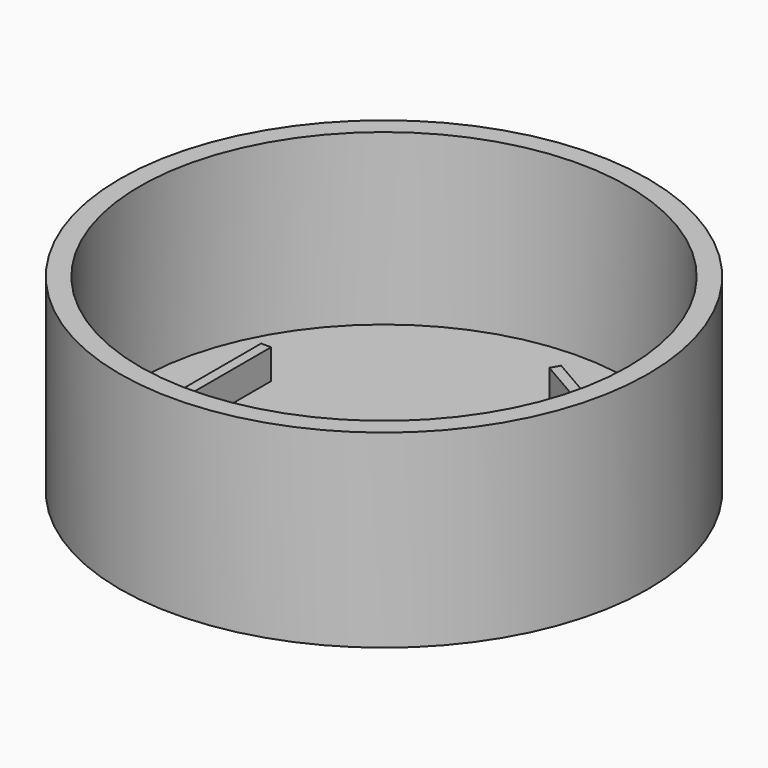
from build123d import *

# Parameters (mm, degrees)
F0_R     = 24.5
F1_DEPTH = 17
F2_T     = 2
F3_W     = 1
F3_H     = 12
F4_DEPTH = 3


with BuildPart() as f1:
    # F0 (on Top) → F1 (new body)
    with BuildSketch(Plane.XY):
        Circle(F0_R)
    extrude(amount=F1_DEPTH)

    # F2
    f2_openings = [f1.faces().sort_by_distance(p)[0] for p in [
        (0, 0, 17),
    ]]
    offset(amount=F2_T, openings=f2_openings, kind=Kind.INTERSECTION)

    # F3 (on face) → F4 (join)
    with BuildSketch(Plane.XY):
        with Locations((-16.7093845084, 0.0996340905)):
            Rectangle(F3_W, F3_H)
        Polygon((3.322254178, -17.9535812131), (13.7145590234, -11.9535812131), (13.2145590234, -11.0875558093), (2.822254178, -17.0875558093), align=None)
        Polygon((13.8871303304, 11.8539471225), (3.494825485, 17.8539471225), (2.994825485, 16.9879217187), (13.3871303304, 10.9879217187), align=None)
    extrude(amount=F4_DEPTH)


solid = f1.part
